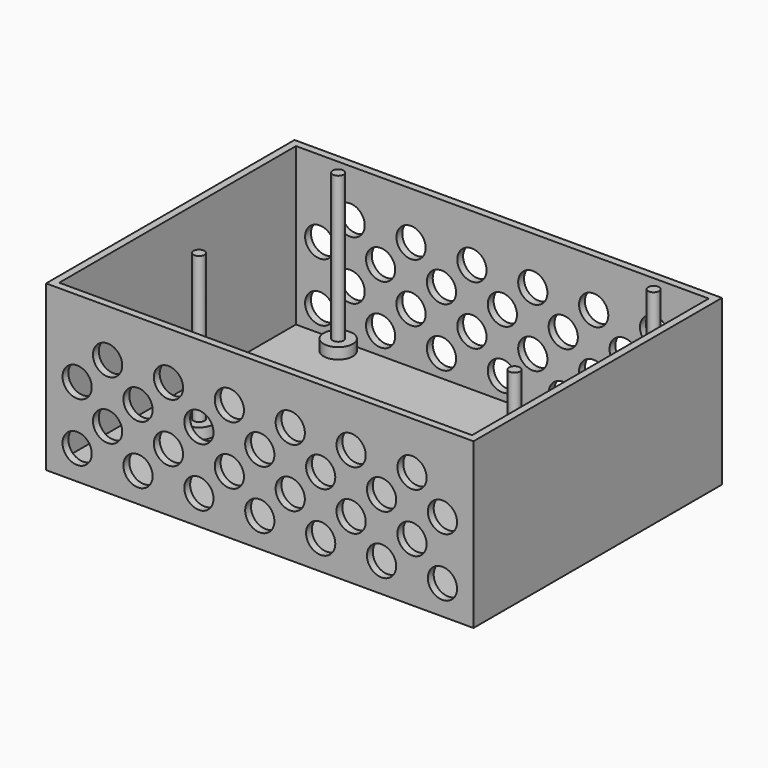
from build123d import *

# Parameters (mm, degrees)
SKETCH_W               = 117
SKETCH_H               = 85
SKETCH_W_2             = 113
SKETCH_H_2             = 81
PAD_DEPTH              = 45
SKETCH001_R            = 4
POCKET_DEPTH           = 5
LINEARPATTERN_COUNT    = 7
LINEARPATTERN_PITCH    = 16.666667
SKETCH002_R            = 4
POCKET001_DEPTH        = 5
LINEARPATTERN001_COUNT = 6
LINEARPATTERN001_PITCH = 16.666
SKETCH003_W            = 117
SKETCH003_H            = 85
PAD001_DEPTH           = 2
SKETCH004_R            = 4
POCKET002_DEPTH        = 5
LINEARPATTERN002_COUNT = 7
LINEARPATTERN002_PITCH = 16.666667
SKETCH005_R            = 4
POCKET003_DEPTH        = 5
LINEARPATTERN003_COUNT = 6
LINEARPATTERN003_PITCH = 16.666
SKETCH006_R            = 4
POCKET004_DEPTH        = 5
LINEARPATTERN004_COUNT = 7
LINEARPATTERN004_PITCH = 16.666667
SKETCH007_R            = 4
POCKET005_DEPTH        = 5
LINEARPATTERN005_COUNT = 7
LINEARPATTERN005_PITCH = 16.666667
SKETCH008_R            = 4
POCKET006_DEPTH        = 5
LINEARPATTERN006_COUNT = 6
LINEARPATTERN006_PITCH = 16.666
SKETCH009_R            = 4
POCKET007_DEPTH        = 5
LINEARPATTERN007_COUNT = 6
LINEARPATTERN007_PITCH = 16.666
SKETCH010_R            = 4
PAD002_DEPTH           = 3
LINEARPATTERN008_COUNT = 2
LINEARPATTERN008_PITCH = 86.36
SKETCH013_R            = 1.5
PAD004_DEPTH           = 40
SKETCH015_R            = 1.5
PAD006_DEPTH           = 40
SKETCH011_R            = 4
PAD003_DEPTH           = 3
LINEARPATTERN009_COUNT = 2
LINEARPATTERN009_PITCH = 86.36
SKETCH014_R            = 1.5
PAD005_DEPTH           = 40
SKETCH016_R            = 1.5
PAD007_DEPTH           = 40


with BuildPart() as linearpattern007:
    # Sketch → Pad (new body)
    with BuildSketch(Plane.XY):
        Rectangle(SKETCH_W, SKETCH_H)
        Rectangle(SKETCH_W_2, SKETCH_H_2, mode=Mode.SUBTRACT)
    extrude(amount=PAD_DEPTH)

    # Sketch001 → Pocket (cut)
    with BuildSketch(Plane(origin=(0, 42.5, 0), x_dir=(-1, 0, 0), z_dir=(0, 1, 0))):
        with Locations((-50, 8)):
            Circle(SKETCH001_R)
    pocket = extrude(amount=-POCKET_DEPTH, mode=Mode.SUBTRACT)

    # LinearPattern: Pocket ×7
    with Locations(*[(-i * LINEARPATTERN_PITCH, 0, 0) for i in range(1, LINEARPATTERN_COUNT)]):
        add(pocket, mode=Mode.SUBTRACT)

    # Sketch002 → Pocket001 (cut)
    with BuildSketch(Plane(origin=(0, 42.5, 0), x_dir=(-1, 0, 0), z_dir=(0, 1, 0))):
        with Locations((-41.66, 16)):
            Circle(SKETCH002_R)
    pocket001 = extrude(amount=-POCKET001_DEPTH, mode=Mode.SUBTRACT)

    # LinearPattern001: Pocket001 ×6
    with Locations(*[(-i * LINEARPATTERN001_PITCH, 0, 0) for i in range(1, LINEARPATTERN001_COUNT)]):
        add(pocket001, mode=Mode.SUBTRACT)

    # Sketch003 → Pad001 (new body)
    with BuildSketch(Plane(origin=(0, 0, 0), x_dir=(1, 0, 0), z_dir=(0, 0, -1))):
        Rectangle(SKETCH003_W, SKETCH003_H)
    extrude(amount=-PAD001_DEPTH)

    # Sketch004 → Pocket002 (cut)
    with BuildSketch(Plane.XZ.offset(42.5)):
        with Locations((-50, 8)):
            Circle(SKETCH004_R)
    pocket002 = extrude(amount=-POCKET002_DEPTH, mode=Mode.SUBTRACT)

    # LinearPattern002: Pocket002 ×7
    with Locations(*[(i * LINEARPATTERN002_PITCH, 0, 0) for i in range(1, LINEARPATTERN002_COUNT)]):
        add(pocket002, mode=Mode.SUBTRACT)

    # Sketch005 → Pocket003 (cut)
    with BuildSketch(Plane.XZ.offset(42.5)):
        with Locations((-41.666, 16)):
            Circle(SKETCH005_R)
    pocket003 = extrude(amount=-POCKET003_DEPTH, mode=Mode.SUBTRACT)

    # LinearPattern003: Pocket003 ×6
    with Locations(*[(i * LINEARPATTERN003_PITCH, 0, 0) for i in range(1, LINEARPATTERN003_COUNT)]):
        add(pocket003, mode=Mode.SUBTRACT)

    # Sketch006 → Pocket004 (cut)
    with BuildSketch(Plane.XZ.offset(42.5)):
        with Locations((-50, 24)):
            Circle(SKETCH006_R)
    pocket004 = extrude(amount=-POCKET004_DEPTH, mode=Mode.SUBTRACT)

    # LinearPattern004: Pocket004 ×7
    with Locations(*[(i * LINEARPATTERN004_PITCH, 0, 0) for i in range(1, LINEARPATTERN004_COUNT)]):
        add(pocket004, mode=Mode.SUBTRACT)

    # Sketch007 → Pocket005 (cut)
    with BuildSketch(Plane(origin=(0, 42.5, 0), x_dir=(-1, 0, 0), z_dir=(0, 1, 0))):
        with Locations((-50, 24)):
            Circle(SKETCH007_R)
    pocket005 = extrude(amount=-POCKET005_DEPTH, mode=Mode.SUBTRACT)

    # LinearPattern005: Pocket005 ×7
    with Locations(*[(-i * LINEARPATTERN005_PITCH, 0, 0) for i in range(1, LINEARPATTERN005_COUNT)]):
        add(pocket005, mode=Mode.SUBTRACT)

    # Sketch008 → Pocket006 (cut)
    with BuildSketch(Plane(origin=(0, 42.5, 0), x_dir=(-1, 0, 0), z_dir=(0, 1, 0))):
        with Locations((-41.66, 32)):
            Circle(SKETCH008_R)
    pocket006 = extrude(amount=-POCKET006_DEPTH, mode=Mode.SUBTRACT)

    # LinearPattern006: Pocket006 ×6
    with Locations(*[(-i * LINEARPATTERN006_PITCH, 0, 0) for i in range(1, LINEARPATTERN006_COUNT)]):
        add(pocket006, mode=Mode.SUBTRACT)

    # Sketch009 → Pocket007 (cut)
    with BuildSketch(Plane.XZ.offset(42.5)):
        with Locations((-41.66, 32)):
            Circle(SKETCH009_R)
    pocket007 = extrude(amount=-POCKET007_DEPTH, mode=Mode.SUBTRACT)

    # LinearPattern007: Pocket007 ×6
    with Locations(*[(i * LINEARPATTERN007_PITCH, 0, 0) for i in range(1, LINEARPATTERN007_COUNT)]):
        add(pocket007, mode=Mode.SUBTRACT)


with BuildPart() as pad006:
    # Pad002 base: copy of LinearPattern007
    add(linearpattern007.part)

    # Sketch010 → Pad002 (new body)
    with BuildSketch(Plane.XY.offset(2)):
        with Locations((-41.795, 36.571)):
            Circle(SKETCH010_R)
    pad002 = extrude(amount=PAD002_DEPTH)

    # LinearPattern008: Pad002 ×2
    with Locations(*[(i * LINEARPATTERN008_PITCH, 0, 0) for i in range(1, LINEARPATTERN008_COUNT)]):
        add(pad002)

    # Sketch013 → Pad004 (new body)
    with BuildSketch(Plane.XY.offset(5)):
        with Locations((-41.795, 36.571)):
            Circle(SKETCH013_R)
    extrude(amount=PAD004_DEPTH)

    # Sketch015 → Pad006 (new body)
    with BuildSketch(Plane.XY.offset(5)):
        with Locations((44.565, 36.571)):
            Circle(SKETCH015_R)
    extrude(amount=PAD006_DEPTH)


with BuildPart() as pad007:
    # Pad003 base: copy of LinearPattern007
    add(linearpattern007.part)

    # Sketch011 → Pad003 (new body)
    with BuildSketch(Plane.XY.offset(2)):
        with Locations((-41.795, -11.049)):
            Circle(SKETCH011_R)
    pad003 = extrude(amount=PAD003_DEPTH)

    # LinearPattern009: Pad003 ×2
    with Locations(*[(i * LINEARPATTERN009_PITCH, 0, 0) for i in range(1, LINEARPATTERN009_COUNT)]):
        add(pad003)

    # Sketch014 → Pad005 (new body)
    with BuildSketch(Plane.XY.offset(5)):
        with Locations((-41.795, -11.049)):
            Circle(SKETCH014_R)
    extrude(amount=PAD005_DEPTH)

    # Sketch016 → Pad007 (new body)
    with BuildSketch(Plane.XY.offset(5)):
        with Locations((44.565, -11.049)):
            Circle(SKETCH016_R)
    extrude(amount=PAD007_DEPTH)


solid = Compound([pad006.part, pad007.part])
